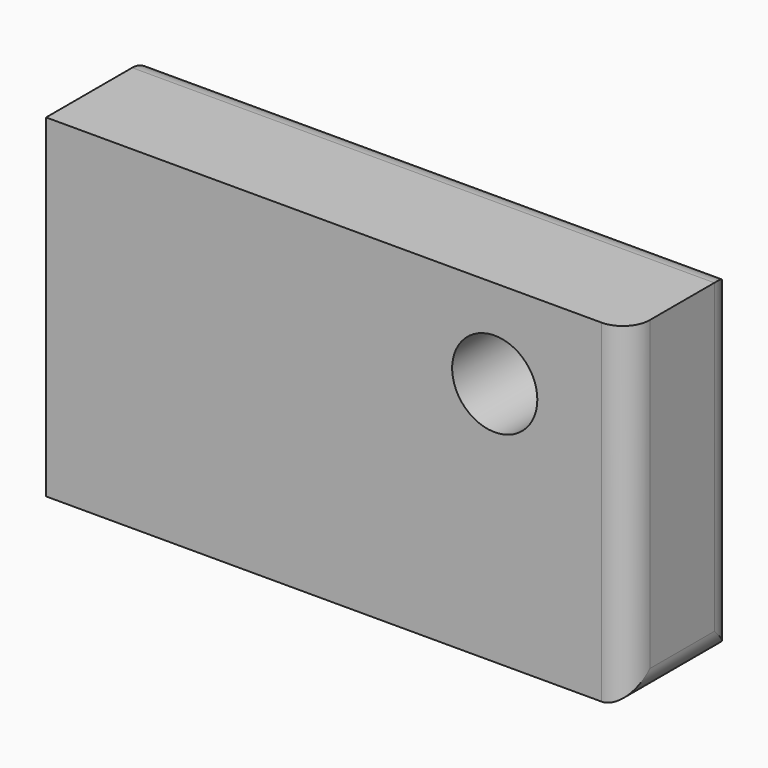
from build123d import *

# Parameters (mm, degrees)
F0_R     = 8.04398
F1_DEPTH = 25.4
F2_R     = 5.08


with BuildPart() as f1:
    # F0 (on Front) → F1 (new body)
    with BuildSketch(Plane.XZ):
        Polygon((0, 36.257846), (-62.679313, 36.257846), (-62.679313, -26.766282), (47.290332, -26.766282), (47.290332, 36.257846), align=None)
        with Locations((22.064562, 19.504849)):
            Circle(F0_R, mode=Mode.SUBTRACT)
    extrude(amount=F1_DEPTH)

    # F2
    f2_edges = [f1.edges().sort_by_distance(p)[0] for p in [
        (-7.69449, 0, 36.257846),
        (47.290332, 0, 4.745782),
        (47.290332, -12.7, -26.766282),
        (47.290332, -25.4, 4.745782),
    ]]
    fillet(f2_edges, radius=F2_R)


solid = f1.part
